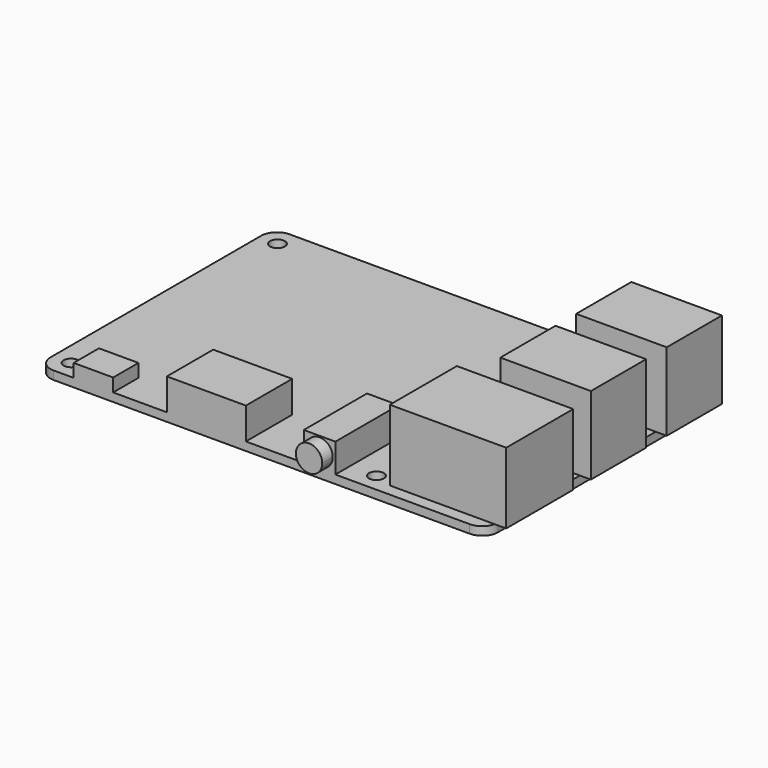
from build123d import *

# Parameters (mm, degrees)
F0_R      = 1.4
F1_DEPTH  = 1.6
F3_DEPTH  = 13.5
F4_W      = 15.1002969221
F4_H      = 13.1
F4_W_2    = 2.1
F5_DEPTH  = 14.8
F6_W      = 6
F6_H      = 15
F7_DEPTH  = 5.5
F9_DEPTH  = 2.5
F10_W     = 15
F10_H     = 11
F11_DEPTH = 6
F12_W     = 7.5
F12_H     = 6
F13_DEPTH = 2.5


with BuildPart() as f1:
    # F0 (on Top) → F1 (new body)
    with BuildSketch(Plane.XY):
        with BuildLine():
            ThreePointArc((0, 3), (0.8786796564, 0.8786796564), (3, 0))
            Line((3, 0), (82, 0))
            ThreePointArc((82, 0), (84.1213203436, 0.8786796564), (85, 3))
            Line((85, 3), (85, 53))
            ThreePointArc((85, 53), (84.1213203436, 55.1213203436), (82, 56))
            Line((82, 56), (3, 56))
            ThreePointArc((3, 56), (0.8786796564, 55.1213203436), (0, 53))
            Line((0, 53), (0, 3))
        make_face()
        with Locations((3.5, 3.5)):
            Circle(F0_R, mode=Mode.SUBTRACT)
        with Locations((61.5, 3.5)):
            Circle(F0_R, mode=Mode.SUBTRACT)
        with Locations((3.5, 52.5)):
            Circle(F0_R, mode=Mode.SUBTRACT)
        with Locations((61.5, 52.5)):
            Circle(F0_R, mode=Mode.SUBTRACT)
    extrude(amount=-F1_DEPTH)

    # F2 (on face) → F3 (join)
    with BuildSketch(Plane.XY):
        with BuildLine():
            Line((84.9171904292, 2.3), (87.1, 2.3))
            Line((87.1, 2.3), (87.1, 18.2))
            Line((87.1, 18.2), (85, 18.2))
            Line((85, 18.2), (85, 3))
            ThreePointArc((85, 3), (84.9792256786, 2.6475594288), (84.9171904292, 2.3))
        make_face()
        with BuildLine():
            Line((65, 2.3), (84.9171904292, 2.3))
            ThreePointArc((84.9171904292, 2.3), (84.9792256786, 2.6475594288), (85, 3))
            Line((85, 3), (85, 18.2))
            Line((85, 18.2), (65, 18.2))
            Line((65, 18.2), (65, 2.3))
        make_face()
    extrude(amount=F3_DEPTH)

    # F4 (on face) → F5 (join)
    with BuildSketch(Plane.XY):
        with Locations((77.4498515389, 28.95)):
            Rectangle(F4_W, F4_H)
        with BuildLine():
            Line((84.9580398915, 53.5), (69.8997030779, 53.5))
            Line((69.8997030779, 53.5), (69.8997030779, 40.4))
            Line((69.8997030779, 40.4), (85, 40.4))
            Line((85, 40.4), (85, 53))
            ThreePointArc((85, 53), (84.9894915684, 53.2508787808), (84.9580398915, 53.5))
        make_face()
        with BuildLine():
            Line((87.1, 53.5), (84.9580398915, 53.5))
            ThreePointArc((84.9580398915, 53.5), (84.9894915684, 53.2508787808), (85, 53))
            Line((85, 53), (85, 40.4))
            Line((85, 40.4), (87.1, 40.4))
            Line((87.1, 40.4), (87.1, 53.5))
        make_face()
        with Locations((86.05, 28.95)):
            Rectangle(F4_W_2, F4_H)
    extrude(amount=F5_DEPTH)

    # F6 (on face) → F7 (join)
    with BuildSketch(Plane.XY):
        with Locations((53.5, 7.5)):
            Rectangle(F6_W, F6_H)
    extrude(amount=F7_DEPTH)

    # F8 (on face) → F9 (join)
    with BuildSketch(Plane.XZ):
        with BuildLine():
            Line((55.3428853505, 1.0606884287), (51.6571146495, 4.4393115713))
            ThreePointArc((51.6571146495, 4.4393115713), (51.8106884287, 0.9071146495), (55.3428853505, 1.0606884287))
        make_face()
        with BuildLine():
            ThreePointArc((56, 2.75), (54.4063075151, 5.0799370567), (51.6571146495, 4.4393115713))
            Line((51.6571146495, 4.4393115713), (55.3428853505, 1.0606884287))
            ThreePointArc((55.3428853505, 1.0606884287), (55.8299370567, 1.8436924849), (56, 2.75))
        make_face()
    extrude(amount=F9_DEPTH)

    # F10 (on face) → F11 (join)
    with BuildSketch(Plane.XY):
        with Locations((32, 5.5)):
            Rectangle(F10_W, F10_H)
    extrude(amount=F11_DEPTH)

    # F12 (on face) → F13 (join)
    with BuildSketch(Plane.XY):
        with Locations((10.55, 3)):
            Rectangle(F12_W, F12_H)
    extrude(amount=F13_DEPTH)


solid = f1.part
